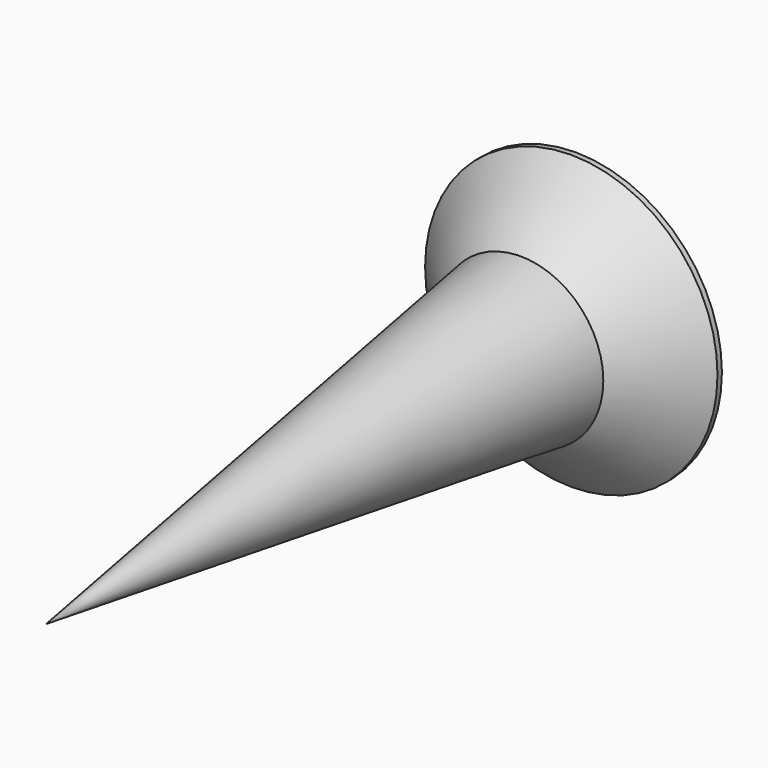
from build123d import *

# Parameters (mm, degrees)
POCKET020_DEPTH         = 0.3
POLARPATTERN002_COUNT   = 2
POLARPATTERN002_ANGLE   = 90
BODY017_PLACEMENT_ANGLE = 90


with BuildPart() as part:
    # Sketch094 → Revolution005 (revolve)
    with BuildSketch(Plane.XZ):
        Polygon((0, 0), (0, -12), (1.5, -1.25), (2.65, -0.1), (2.65, 0), align=None)
    revolve(axis=Axis((0, 0, 0), (0, 0, 1)))

    # Sketch095 → Pocket020 (cut, symmetric)
    with BuildSketch(Plane.XZ):
        Polygon((-2, 0), (0, -2), (2, 0), align=None)
    pocket020 = extrude(amount=POCKET020_DEPTH, both=True, mode=Mode.SUBTRACT)

    # PolarPattern002: Pocket020 ×2 about axis
    polarpattern002_axis = Axis((0, 0, 0), (0, 0, 1))
    for i in range(1, POLARPATTERN002_COUNT):
        add(pocket020.rotate(polarpattern002_axis, i * POLARPATTERN002_ANGLE / (POLARPATTERN002_COUNT - 1)), mode=Mode.SUBTRACT)


with BuildPart() as part_1:
    # Body017 placement: moved
    add(part.part.moved(Location((40, -5.8, 30))).rotate(Axis((40, -5.8, 30), (-1, 0, 0)), BODY017_PLACEMENT_ANGLE))


solid = part_1.part
